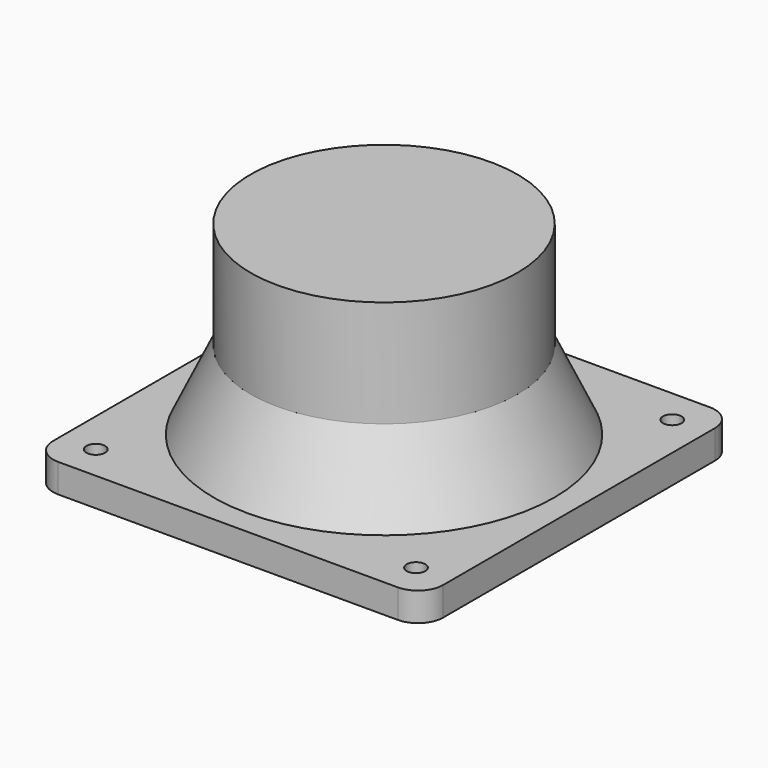
from build123d import *

# Parameters (mm, degrees)
SKETCH002_W  = 77.5
SKETCH002_H  = 77.5
SKETCH002_R  = 1.85
PAD_DEPTH    = 5.7
FILLET_R     = 5
SKETCH_R     = 32.537283
POCKET_DEPTH = 5.7


with BuildPart() as part:
    # Sketch001 → Revolution (revolve)
    with BuildSketch(Plane.XZ):
        with BuildLine():
            Line((0, 41.745886), (0, 74.590784))
            Line((0, 74.590784), (26.5, 74.590784))
            Line((26.5, 74.590784), (26.5, 53.340784))
            Line((26.5, 53.340784), (36.5, 32.090784))
            Line((36.5, 32.090784), (33.5, 32.090784))
            Line((33.5, 32.090784), (10, 46.745886))
            add(Edge.make_bspline(
                [(0, 41.745886), (8.313298, 41.745886), (10, 46.745886)],
                knots=[1.570796, 1.570796, 1.570796, 2.937282, 2.937282, 2.937282], degree=2, weights=[1, 0.77553, 1]))
        make_face()
    revolve(axis=Axis((0, 0, 0), (0, 0, 1)))

    # Sketch002 → Pad (new body)
    with BuildSketch(Plane(origin=(0, 0, 31.993353), x_dir=(1, 0, 0), z_dir=(0, 0, -1))):
        Rectangle(SKETCH002_W, SKETCH002_H)
        with Locations((-31.819805, 31.819805)):
            Circle(SKETCH002_R, mode=Mode.SUBTRACT)
        with Locations((31.819805, 31.819805)):
            Circle(SKETCH002_R, mode=Mode.SUBTRACT)
        with Locations((-31.819805, -31.819805)):
            Circle(SKETCH002_R, mode=Mode.SUBTRACT)
        with Locations((31.819805, -31.819805)):
            Circle(SKETCH002_R, mode=Mode.SUBTRACT)
    extrude(amount=-PAD_DEPTH)

    # Fillet
    fillet_edges = [part.edges().sort_by_distance(p)[0] for p in [
        (38.75, -38.75, 34.843353),
        (-38.75, -38.75, 34.843353),
        (-38.75, 38.75, 34.843353),
        (38.75, 38.75, 34.843353),
    ]]
    fillet(fillet_edges, radius=FILLET_R)

    # Sketch → Pocket (cut)
    with BuildSketch(Plane(origin=(0, 0, 31.993353), x_dir=(1, 0, 0), z_dir=(0, 0, -1))):
        Circle(SKETCH_R)
    extrude(amount=-POCKET_DEPTH, mode=Mode.SUBTRACT)


solid = part.part
